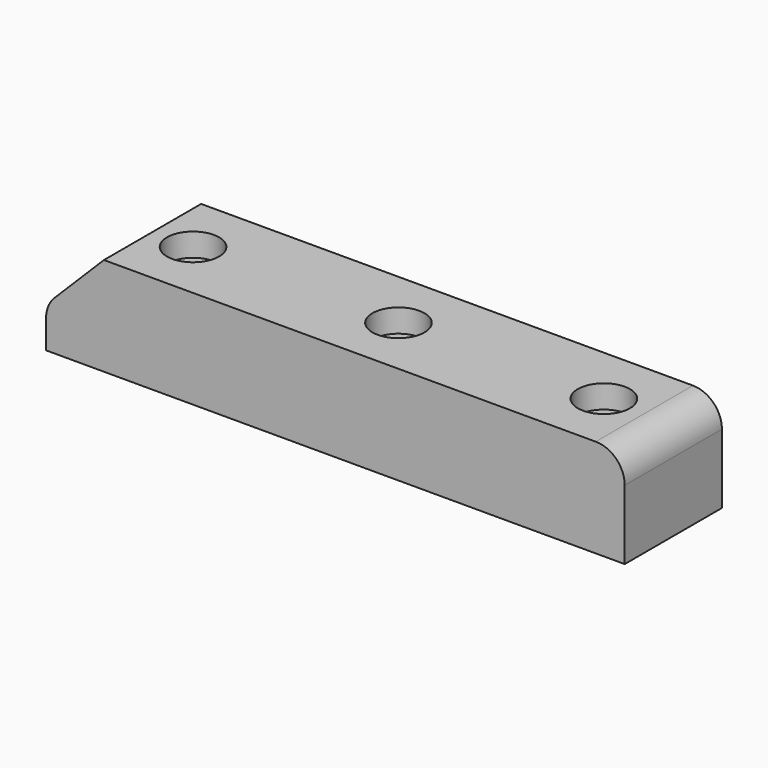
from build123d import *

# Parameters (mm, degrees)
F1_DEPTH = 21
F2_R     = 5
F3_R     = 5
F5_DEPTH = 25
F6_R     = 4.5
F7_DEPTH = 4


with BuildPart() as f1:
    # F0 (on Front) → F1 (new body)
    with BuildSketch(Plane.XZ):
        Polygon((-3, 7), (-3, 0), (97, 0), (97, 17), (7, 17), align=None)
    extrude(amount=F1_DEPTH)

    # F2
    f2_edges = [f1.edges().sort_by_distance(p)[0] for p in [
        (97, -10.5, 17),
    ]]
    fillet(f2_edges, radius=F2_R)

    # F3
    f3_edges = [f1.edges().sort_by_distance(p)[0] for p in [
        (-3, -10.5, 7),
    ]]
    fillet(f3_edges, radius=F3_R)

    # F4 (on face) → F5 (cut)
    with BuildSketch(Plane.XY.offset(17)):
        with BuildLine():
            ThreePointArc((87, -10.5), (85, -8.5), (83, -10.5))
            Line((83, -10.5), (87, -10.5))
        make_face()
        with BuildLine():
            Line((87, -10.5), (83, -10.5))
            ThreePointArc((83, -10.5), (85, -12.5), (87, -10.5))
        make_face()
        with BuildLine():
            ThreePointArc((51.5, -10.5), (49.5, -8.5), (47.5, -10.5))
            Line((47.5, -10.5), (51.5, -10.5))
        make_face()
        with BuildLine():
            Line((51.5, -10.5), (47.5, -10.5))
            ThreePointArc((47.5, -10.5), (49.5, -12.5), (51.5, -10.5))
        make_face()
        with BuildLine():
            ThreePointArc((12, -10.5), (14, -12.5), (16, -10.5))
            Line((16, -10.5), (12, -10.5))
        make_face()
        with BuildLine():
            Line((12, -10.5), (16, -10.5))
            ThreePointArc((16, -10.5), (14, -8.5), (12, -10.5))
        make_face()
    extrude(amount=-F5_DEPTH, mode=Mode.SUBTRACT)

    # F6 (on face) → F7 (cut)
    with BuildSketch(Plane.XY.offset(17)):
        with Locations((14, -10.5)):
            Circle(F6_R)
        with Locations((49.5, -10.5)):
            Circle(F6_R)
        with Locations((85, -10.5)):
            Circle(F6_R)
    extrude(amount=-F7_DEPTH, mode=Mode.SUBTRACT)


solid = f1.part
